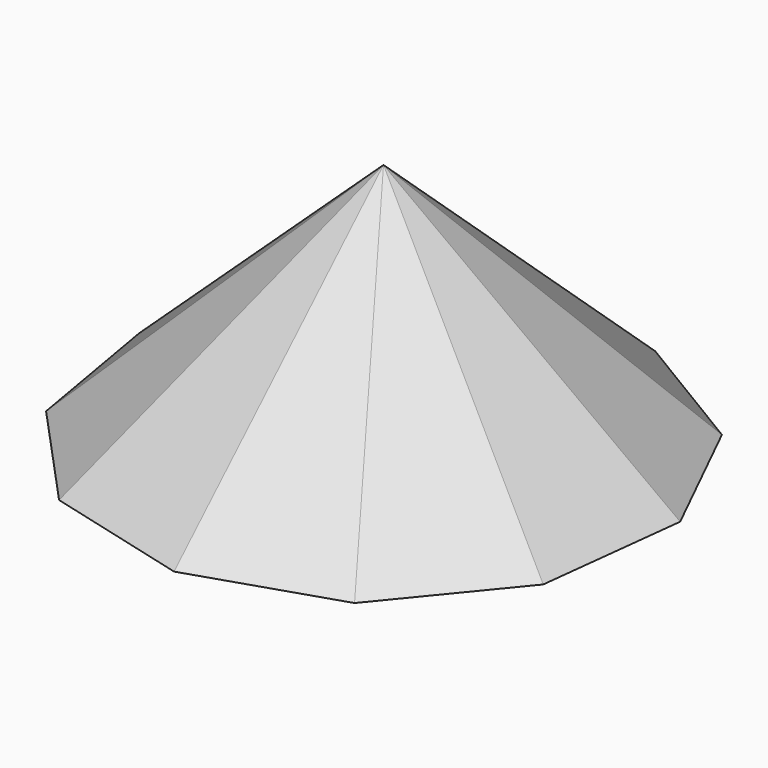
from build123d import *


with BuildPart() as f3:
    # F0 (on Top) → F3 section 0
    with BuildSketch(Plane.XY, mode=Mode.PRIVATE) as f3_s0:
        Polygon((-108.277609, 12.464751), (-97.827874, -48.05328), (-56.31848, -93.314733), (3.071633, -108.949418), (61.486525, -89.993433), (100.379879, -42.465168), (107.403331, 18.545487), (80.326985, 73.668081), (27.747388, 105.40158), (-33.641808, 103.670822), (-84.349968, 69.025311), align=None)
    loft([f3_s0.sketch, Vertex(0, 1.621803, 100)])


solid = f3.part
